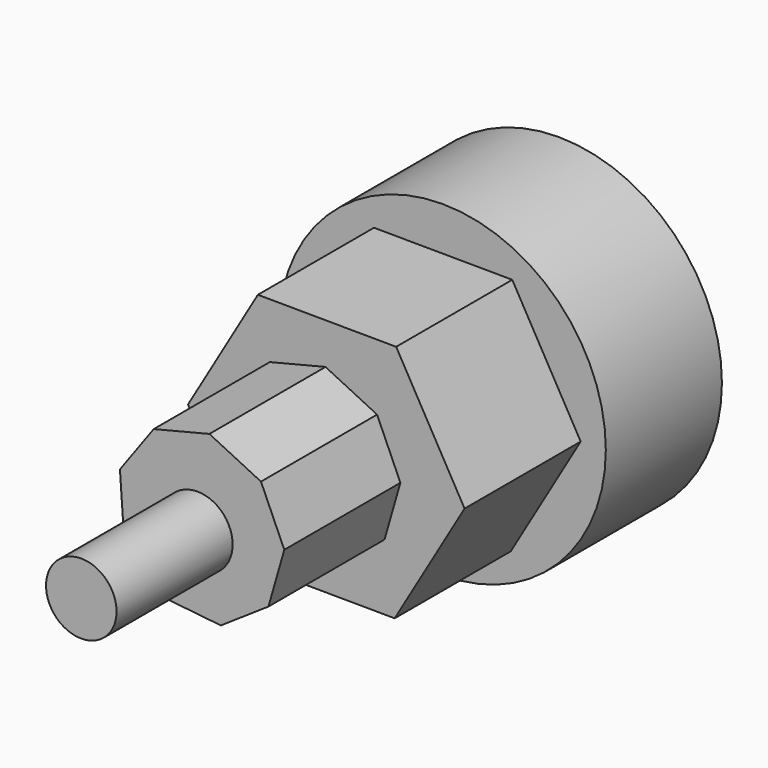
from build123d import *

# Parameters (mm, degrees)
F0_R     = 28.604238
F1_DEPTH = 25.4
F3_DEPTH = 25.4
F5_DEPTH = 25.4
F6_R     = 6.17176
F7_DEPTH = 25.4


with BuildPart() as f1:
    # F0 (on Front) → F1 (new body)
    with BuildSketch(Plane.XZ):
        with Locations((-42.036779, 40.495433)):
            Circle(F0_R)
    extrude(amount=F1_DEPTH)

    # F2 (on face) → F3 (join)
    with BuildSketch(Plane.XZ.offset(25.4)):
        Polygon((-17.834256, 40.347526), (-29.807427, 61.381479), (-54.00995, 61.529386), (-66.239302, 40.643339), (-54.266131, 19.609387), (-30.063609, 19.46148), align=None)
    extrude(amount=F3_DEPTH)

    # F4 (on face) → F5 (join)
    with BuildSketch(Plane.XZ.offset(50.8)):
        Polygon((-29.067197, 40.669558), (-33.147233, 49.849639), (-42.173565, 54.259393), (-51.922672, 51.835446), (-57.832837, 43.71199), (-57.13863, 33.69008), (-50.164877, 26.45908), (-40.174675, 25.402454), (-31.84255, 31.01461), align=None)
    extrude(amount=F5_DEPTH)

    # F6 (on face) → F7 (join)
    with BuildSketch(Plane.XZ.offset(76.2)):
        with Locations((-44.278741, 38.533714)):
            Circle(F6_R)
    extrude(amount=F7_DEPTH)


solid = f1.part
